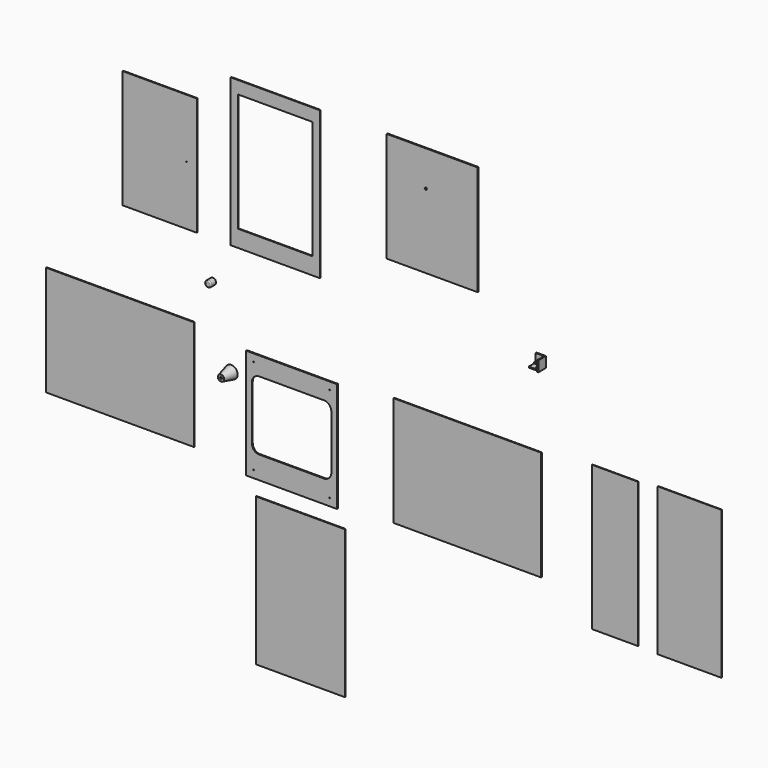
from build123d import *

# Parameters (mm, degrees)
F2_R        = 30
F4_R        = 15
F6_R        = 5
F7_DEPTH    = 42
F8_R        = 2.15
F9_DEPTH    = 19.0010001
F10_W       = 430
F10_H       = 520
F10_R       = 2.15
F11_DEPTH   = 5
F13_DEPTH   = 61.0010001
F14_W       = 700
F14_H       = 520
F16_DEPTH   = 4
F15_W       = 422
F15_H       = 700
F17_DEPTH   = 4
F18_W       = 700
F18_H       = 520
F19_DEPTH   = 4
F20_W       = 422
F20_H       = 700
F20_W_2     = 352
F20_H_2     = 560
F21_DEPTH   = 4
F22_W       = 430
F22_H       = 520
F22_R       = 5
F23_DEPTH   = 5
F24_W       = 352
F24_H       = 559.5
F24_R       = 1.65
F25_DEPTH   = 4
F26_R       = 15
F27_DEPTH   = 30
F28_R       = 5
F29_R       = 1.5
F30_DEPTH   = 15
F31_W       = 40
F31_H       = 40
F32_DEPTH   = 5
F33_W       = 40
F33_H       = 40
F33_W_2     = 5
F34_DEPTH   = 5
F35_W       = 40
F35_H       = 40
F36_DEPTH   = 5
F36_FACE1_W = 40
F36_FACE1_H = 40
F38_DEPTH   = 5
F40_DEPTH   = 5
F41_W       = 302
F41_H       = 700
F42_DEPTH   = 3
F43_W       = 218
F43_H       = 685
F44_DEPTH   = 3


with BuildPart() as f5:
    # F2 (on Front) → F5 section 0
    with BuildSketch(Plane.XZ):
        Circle(F2_R)
    # F4 (on offset) → F5 section 1
    with BuildSketch(Plane.XZ.offset(61)):
        Circle(F4_R)
    loft()

    # F6 (on face) → F7 (cut)
    with BuildSketch(Plane.XZ.offset(61)):
        Circle(F6_R)
    extrude(amount=-F7_DEPTH, mode=Mode.SUBTRACT)

    # F8 (on face) → F9 (cut, through all)
    with BuildSketch(Plane.XZ.offset(19)):
        Circle(F8_R)
    extrude(amount=-F9_DEPTH, mode=Mode.SUBTRACT)


with BuildPart() as f11:
    # F10 (on offset) → F11 (new body)
    with BuildSketch(Plane.XZ.offset(61)):
        with Locations((334.2302817106, -107.4090420464)):
            Rectangle(F10_W, F10_H)
        with Locations((154.2302817106, -332.4090420464)):
            Circle(F10_R, mode=Mode.SUBTRACT)
        with Locations((514.2302817106, -332.4090420464)):
            Circle(F10_R, mode=Mode.SUBTRACT)
        with Locations((154.2302817106, 117.5909579536)):
            Circle(F10_R, mode=Mode.SUBTRACT)
        with Locations((514.2302817106, 117.5909579536)):
            Circle(F10_R, mode=Mode.SUBTRACT)
    extrude(amount=-F11_DEPTH)

    # F12 (on face) → F13 (cut, through all)
    with BuildSketch(Plane.XZ.offset(61)):
        with BuildLine():
            Line((487.2302817106, 65.5909579536), (181.2302817106, 65.5909579536))
            ThreePointArc((181.2302817106, 65.5909579536), (156.4815443691, 55.3396952951), (146.2302817106, 30.5909579536))
            Line((146.2302817106, 30.5909579536), (146.2302817106, -225.4090420464))
            ThreePointArc((146.2302817106, -225.4090420464), (156.4815443691, -250.1577793879), (181.2302817106, -260.4090420464))
            Line((181.2302817106, -260.4090420464), (487.2302817106, -260.4090420464))
            ThreePointArc((487.2302817106, -260.4090420464), (511.9790190522, -250.1577793879), (522.2302817106, -225.4090420464))
            Line((522.2302817106, -225.4090420464), (522.2302817106, 30.5909579536))
            ThreePointArc((522.2302817106, 30.5909579536), (511.9790190522, 55.3396952951), (487.2302817106, 65.5909579536))
        make_face()
    extrude(amount=-F13_DEPTH, mode=Mode.SUBTRACT)


with BuildPart() as f16:
    # F14 (on Front) → F16 (new body)
    with BuildSketch(Plane.XZ):
        with Locations((-523.9171147346, -107.4090420464)):
            Rectangle(F14_W, F14_H)
    extrude(amount=F16_DEPTH)


with BuildPart() as f17:
    # F15 (on Front) → F17 (new body)
    with BuildSketch(Plane.XZ):
        with Locations((330.2302817106, -827.7637004852)):
            Rectangle(F15_W, F15_H)
    extrude(amount=F17_DEPTH)


with BuildPart() as f19:
    # F18 (on Front) → F19 (new body)
    with BuildSketch(Plane.XZ):
        with Locations((1120.5426770376, -116.4230778813)):
            Rectangle(F18_W, F18_H)
    extrude(amount=F19_DEPTH)


with BuildPart() as f21:
    # F20 (on Front) → F21 (new body)
    with BuildSketch(Plane.XZ):
        with Locations((211, 880.3275906977)):
            Rectangle(F20_W, F20_H)
        with Locations((211, 890.3275906977)):
            Rectangle(F20_W_2, F20_H_2, mode=Mode.SUBTRACT)
    extrude(amount=F21_DEPTH)


with BuildPart() as f23:
    # F22 (on Front) → F23 (new body)
    with BuildSketch(Plane.XZ):
        with Locations((954.81153965, 975.4439687729)):
            Rectangle(F22_W, F22_H)
        with Locations((924.81153965, 1067.4439687729)):
            Circle(F22_R, mode=Mode.SUBTRACT)
    extrude(amount=F23_DEPTH)


with BuildPart() as f25:
    # F24 (on Front) → F25 (new body)
    with BuildSketch(Plane.XZ):
        with Locations((-335.0291686491, 810.057264328)):
            Rectangle(F24_W, F24_H)
        with Locations((-209.0291686491, 810.057264328)):
            Circle(F24_R, mode=Mode.SUBTRACT)
    extrude(amount=F25_DEPTH)


with BuildPart() as f27:
    # F26 (on Front) → F27 (new body)
    with BuildSketch(Plane.XZ):
        with Locations((-87.1785804629, 350.1093685627)):
            Circle(F26_R)
    extrude(amount=F27_DEPTH)

    # F28
    f28_edges = [f27.edges().sort_by_distance(p)[0] for p in [
        (-102.17858, -30, 350.109369),
    ]]
    fillet(f28_edges, radius=F28_R)

    # F29 (on face) → F30 (cut)
    with BuildSketch(Plane(origin=(0, 0, 0), x_dir=(-1, 0, 0), z_dir=(0, 1, 0))):
        with Locations((87.1785804629, 350.1093685627)):
            Circle(F29_R)
    extrude(amount=-F30_DEPTH, mode=Mode.SUBTRACT)


with BuildPart() as f32:
    # F31 (on Front) → F32 (new body)
    with BuildSketch(Plane.XZ):
        with Locations((1464.5347595215, 531.4224843595)):
            Rectangle(F31_W, F31_H)
    extrude(amount=F32_DEPTH)

    # F33 (on face) → F34 (join)
    with BuildSketch(Plane.YZ.offset(1484.5347595215)):
        with Locations((-25, 531.4224843595)):
            Rectangle(F33_W, F33_H)
        with Locations((-2.5, 531.4224843595)):
            Rectangle(F33_W_2, F33_H)
    extrude(amount=F34_DEPTH)

    # F35 (on face) → F36 (join)
    with BuildSketch(Plane(origin=(0, 0, 511.4224843595), x_dir=(1, 0, 0), z_dir=(0, 0, -1))):
        Polygon((1444.5347595215, 0), (1489.5347595215, 0), (1489.5347595215, 45), (1484.5347595215, 45), (1484.5347595215, 5), (1444.5347595215, 5), align=None)
        with Locations((1464.5347595215, 25)):
            Rectangle(F35_W, F35_H)
    extrude(amount=F36_DEPTH)

    # F37 (on face) + F36_face1 (on face) → F38 (join)
    with BuildSketch(Plane(origin=(0, 0, 506.4224843595), x_dir=(1, 0, 0), z_dir=(0, 0, -1))):
        Polygon((1444.5347595215, 0), (1489.5347595215, 0), (1489.5347595215, 45), (1484.5347595215, 45), (1484.5347595215, 5), (1444.5347595215, 5), align=None)
    with BuildSketch(Plane(origin=(1464.5347595215, -25, 511.4224843595), x_dir=(1, 0, 0), z_dir=(0, 0, 1))):
        Rectangle(F36_FACE1_W, F36_FACE1_H)
    extrude(amount=F38_DEPTH, dir=(0, 0, -1))

    # F39 (on face) → F40 (join)
    with BuildSketch(Plane.XY.offset(511.4224843595)):
        Polygon((1481.0347595215, -8.5), (1444.5347595215, -8.5), (1444.5347595215, -13.5), (1476.0347595215, -13.5), (1476.0347595215, -45), (1481.0347595215, -45), align=None)
    extrude(amount=F40_DEPTH)


with BuildPart() as f42:
    # F41 (on Front) → F42 (new body)
    with BuildSketch(Plane.XZ):
        with Locations((2172.0292568207, -167.8005013911)):
            Rectangle(F41_W, F41_H)
    extrude(amount=F42_DEPTH)


with BuildPart() as f44:
    # F43 (on Front) → F44 (new body)
    with BuildSketch(Plane.XZ):
        with Locations((1819.2178010941, -171.5295280986)):
            Rectangle(F43_W, F43_H)
    extrude(amount=F44_DEPTH)


solid = Compound([f5.part, f11.part, f16.part, f17.part, f19.part, f21.part, f23.part, f25.part, f27.part, f32.part, f42.part, f44.part])
